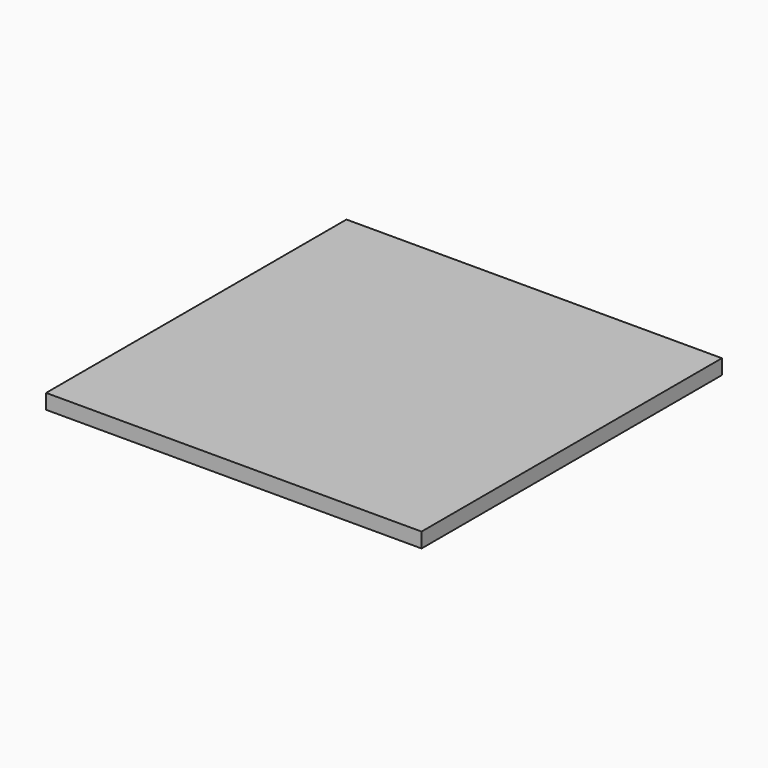
from build123d import *

# Parameters (mm, degrees)
SKETCH_1_W  = 126
SKETCH_1_H  = 126
PAD_1_DEPTH = 5


with BuildPart() as part:
    # Sketch_1 → Pad_1 (new body)
    with BuildSketch(Plane.XY):
        Rectangle(SKETCH_1_W, SKETCH_1_H)
    extrude(amount=PAD_1_DEPTH)


solid = part.part
